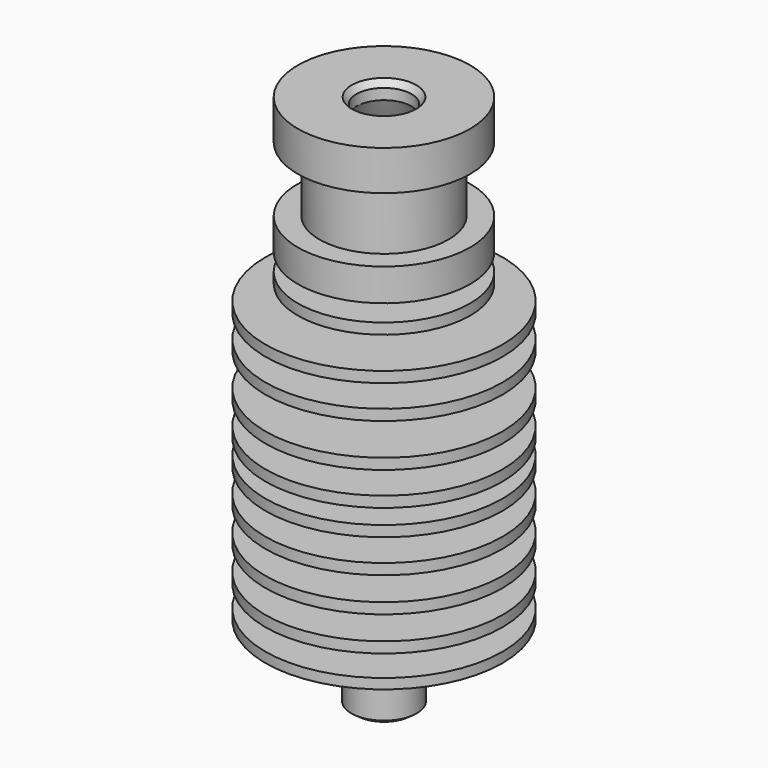
from build123d import *


with BuildPart() as f1:
    # F0 (on Front) → F1 (revolve)
    with BuildSketch(Plane.XZ):
        Polygon((8, 49.8), (3, 49.8), (2.555618, 49.211922), (2.555618, 48.211922), (3.687895, 45.965945), (3.687895, 41.892459), (2.2, 39.236551), (2.2, 7.1), (2.2, 0), (2.476728, 0), (3.047144, 0.404497), (3.047144, 4.667719), (2.476728, 5), (2.476728, 7.1), (11.011527, 7.1), (11.011527, 8.032141), (3, 8.032141), (3, 10.032141), (11.011527, 10.032141), (11.011527, 11.032141), (3, 11.032141), (3, 13.232141), (11.011527, 13.232141), (11.011527, 14.232141), (3, 14.232141), (3, 16.432141), (11.011527, 16.432141), (11.011527, 17.432141), (3, 17.432141), (3, 19.532141), (11, 19.532141), (11, 20.532141), (6.5, 20.532141), (6.5, 21.932141), (11, 21.932141), (11, 22.932141), (3, 22.932141), (3, 25.032141), (11, 25.032141), (11, 26.032141), (3, 26.032141), (3, 29.032141), (11, 29.032141), (11, 30.032141), (3, 30.032141), (3, 32.132141), (11, 32.132141), (11, 33.132141), (4.5, 33.132141), (4.5, 34.524906), (8, 34.524906), (8, 35.524906), (4.5, 35.524906), (4.5, 37.1), (8, 37.1), (8, 40.1), (6, 40.1), (6, 46.1), (8, 46.1), align=None)
    revolve(axis=Axis((0, 0, 18.136091), (0, 0, -1)))


solid = f1.part
